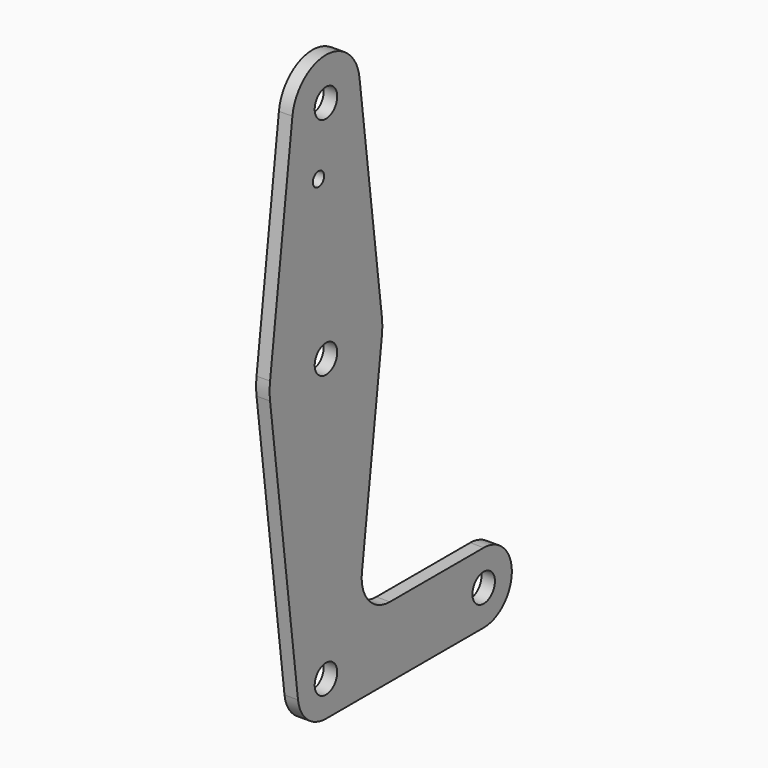
from build123d import *

# Parameters (mm, degrees)
F0_R     = 3.175
F0_R_2   = 1.5875
F1_DEPTH = 3.048


with BuildPart() as f1:
    # F0 (on Right) → F1 (new body)
    with BuildSketch(Plane.YZ):
        with BuildLine():
            ThreePointArc((0, -7.9375), (5.6126600757, -5.6126600757), (7.9375, 0))
            ThreePointArc((7.9375, 0), (-0.4970693683, 7.9219207452), (-7.8752441368, -0.9921875))
            ThreePointArc((-7.8752441368, -0.9921875), (-5.2501627579, -5.953125), (0, -7.9375))
        make_face()
        Circle(F0_R, mode=Mode.SUBTRACT)
        with BuildLine():
            ThreePointArc((-7.8752441368, -0.9921875), (-0.4970693683, 7.9219207452), (7.9375, 0))
            ThreePointArc((7.9375, 0), (5.6126600757, -5.6126600757), (0, -7.9375))
            Line((0, -7.9375), (44.45, -7.9375))
            ThreePointArc((44.45, -7.9375), (36.5125, 0), (44.45, 7.9375))
            Line((44.45, 7.9375), (18.0149584735, 7.9375))
            ThreePointArc((18.0149584735, 7.9375), (12.0523084735, 10.6291369817), (10.127113946, 16.881475))
            Line((10.127113946, 16.881475), (15.7504882737, 61.515625))
            ThreePointArc((15.7504882737, 61.515625), (0, 47.625), (-15.7504882737, 61.515625))
            Line((-15.7504882737, 61.515625), (-7.8752441368, -0.9921875))
        make_face()
        with BuildLine():
            ThreePointArc((-15.7504882737, 65.484375), (-15.875, 63.5), (-15.7504882737, 61.515625))
            ThreePointArc((-15.7504882737, 61.515625), (0, 47.625), (15.7504882737, 61.515625))
            ThreePointArc((15.7504882737, 61.515625), (15.8438414904, 62.5058612634), (15.875, 63.5))
            ThreePointArc((15.875, 63.5), (15.8438414904, 64.4941387366), (15.7504882737, 65.484375))
            ThreePointArc((15.7504882737, 65.484375), (0, 79.375), (-15.7504882737, 65.484375))
        make_face()
        with Locations((0, 63.5)):
            Circle(F0_R, mode=Mode.SUBTRACT)
        with BuildLine():
            ThreePointArc((44.45, 7.9375), (36.5125, 0), (44.45, -7.9375))
            ThreePointArc((44.45, -7.9375), (50.0626600757, -5.6126600757), (52.3875, 0))
            ThreePointArc((52.3875, 0), (50.0626600757, 5.6126600757), (44.45, 7.9375))
        make_face()
        with Locations((44.45, 0)):
            Circle(F0_R, mode=Mode.SUBTRACT)
        with BuildLine():
            Line((-9.4502929642, 115.490625), (-15.7504882737, 65.484375))
            ThreePointArc((-15.7504882737, 65.484375), (0, 79.375), (15.7504882737, 65.484375))
            Line((15.7504882737, 65.484375), (9.4502929642, 115.490625))
            ThreePointArc((9.4502929642, 115.490625), (9.5063048942, 114.896483242), (9.525, 114.3))
            ThreePointArc((9.525, 114.3), (-0.596483242, 104.7936951058), (-9.4502929642, 115.490625))
        make_face()
        with Locations((-2.1114125848, 100.0252)):
            Circle(F0_R_2, mode=Mode.SUBTRACT)
        with BuildLine():
            ThreePointArc((9.4502929642, 115.490625), (0, 123.825), (-9.4502929642, 115.490625))
            ThreePointArc((-9.4502929642, 115.490625), (-0.596483242, 104.7936951058), (9.525, 114.3))
            ThreePointArc((9.525, 114.3), (9.5063048942, 114.896483242), (9.4502929642, 115.490625))
        make_face()
        with Locations((0, 114.3)):
            Circle(F0_R, mode=Mode.SUBTRACT)
    extrude(amount=F1_DEPTH)


solid = f1.part
